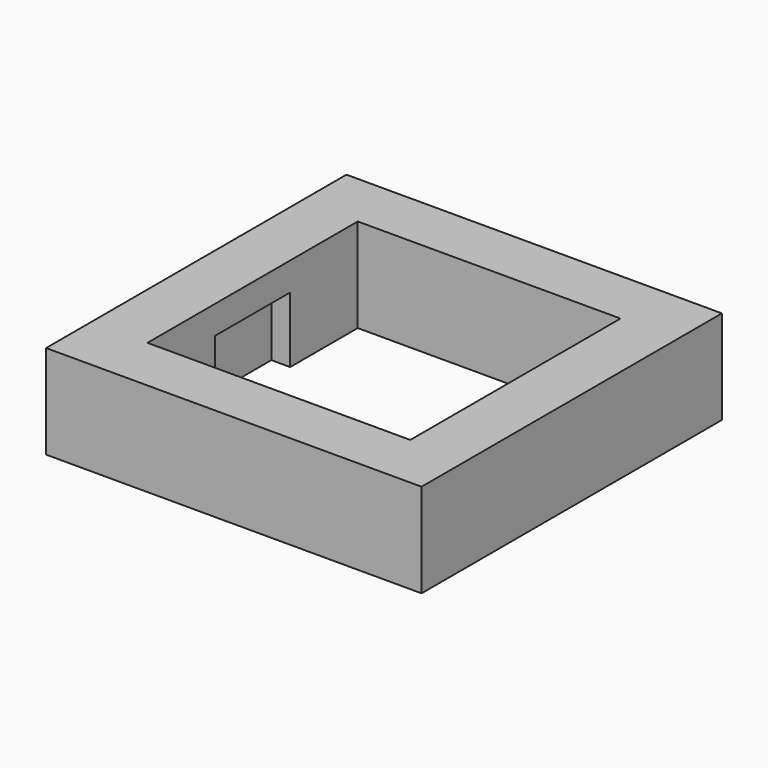
from build123d import *

# Parameters (mm, degrees)
SKETCH_W     = 20
SKETCH_H     = 20
SKETCH_W_2   = 14
SKETCH_H_2   = 14
PAD_DEPTH    = 5
SKETCH001_W  = 16
SKETCH001_H  = 5
POCKET_DEPTH = 3.5


with BuildPart() as part:
    # Sketch → Pad (new body)
    with BuildSketch(Plane.XY):
        Rectangle(SKETCH_W, SKETCH_H)
        Rectangle(SKETCH_W_2, SKETCH_H_2, mode=Mode.SUBTRACT)
    extrude(amount=PAD_DEPTH)

    # Sketch001 → Pocket (cut)
    with BuildSketch(Plane.XY):
        Rectangle(SKETCH001_W, SKETCH001_H)
    extrude(amount=POCKET_DEPTH, mode=Mode.SUBTRACT)


solid = part.part
